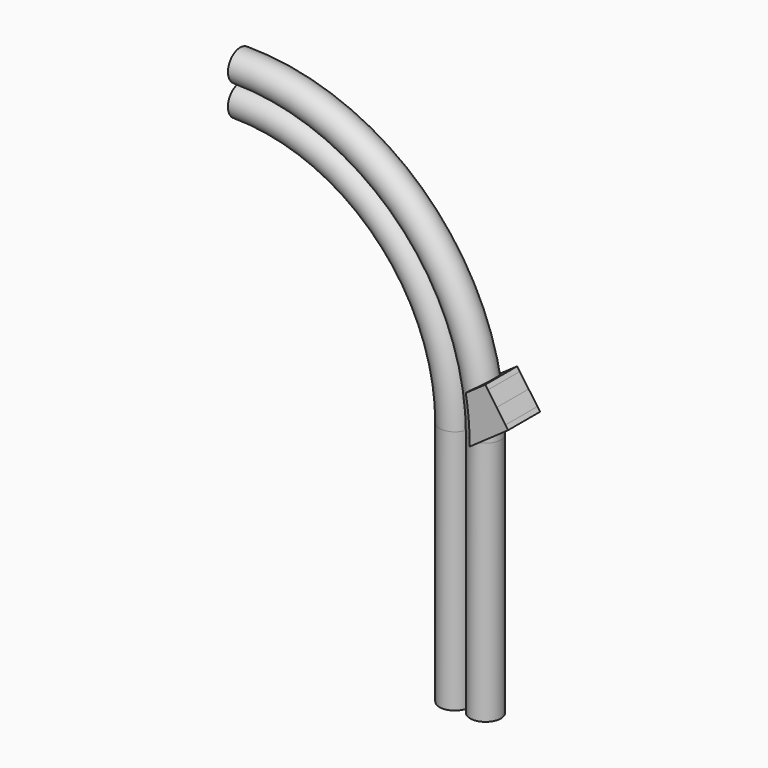
from build123d import *

# Parameters (mm, degrees)
F1_R     = 0.5
F3_DEPTH = 0.65


with BuildPart() as f2:
    # F2: sweep along a path in F0
    with BuildLine(Plane.XZ) as f2_path:
        Line((0, 0), (0, 8))
        ThreePointArc((0, 8), (-2.0502525317, 12.9497474683), (-7, 15))
    # F1 (on Top) → F2 (sweep)
    with BuildSketch(Plane.XY):
        with BuildLine():
            ThreePointArc((1.5, 0), (1, 0.5), (0.5, 0))
            ThreePointArc((0.5, 0), (1, -0.5), (1.5, 0))
        make_face()
        Circle(F1_R)
    sweep(path=f2_path.line)


with BuildPart() as f3:
    # F0 (on Front) → F3 (new body, symmetric)
    with BuildSketch(Plane.XZ):
        with BuildLine():
            Line((1.5123971976, 9.8524954013), (0.875396083, 9.4064624189))
            ThreePointArc((0.875396083, 9.4064624189), (0.8895764218, 9.3246070677), (0.9029059955, 9.2426088788))
            Line((0.9029059955, 9.2426088788), (1.5984336631, 9.7296225946))
            Line((1.5984336631, 9.7296225946), (1.5123971976, 9.8524954013))
        make_face()
        with BuildLine():
            ThreePointArc((0.9029059955, 9.2426088788), (0.9419639806, 8.9618773995), (0.9710528538, 8.6799385282))
            Line((0.9710528538, 8.6799385282), (1.8852218813, 9.3200465725))
            Line((1.8852218813, 9.3200465725), (1.5984336631, 9.7296225946))
            Line((1.5984336631, 9.7296225946), (0.9029059955, 9.2426088788))
        make_face()
        with BuildLine():
            Line((2.1720100995, 8.9104705503), (0.9994996802, 8.0894699162))
            ThreePointArc((0.9994996802, 8.0894699162), (0.9998749191, 8.0447356575), (1, 8))
            Line((1, 8), (1, 7.9067040555))
            Line((1, 7.9067040555), (2.2580465649, 8.7875977437))
            Line((2.2580465649, 8.7875977437), (2.1720100995, 8.9104705503))
        make_face()
        with BuildLine():
            Line((1.8852218813, 9.3200465725), (0.9710528538, 8.6799385282))
            ThreePointArc((0.9710528538, 8.6799385282), (0.9907321539, 8.3849670688), (0.9994996802, 8.0894699162))
            Line((0.9994996802, 8.0894699162), (2.1720100995, 8.9104705503))
            Line((2.1720100995, 8.9104705503), (1.8852218813, 9.3200465725))
        make_face()
    extrude(amount=F3_DEPTH, both=True)


solid = Compound([f2.part, f3.part])
